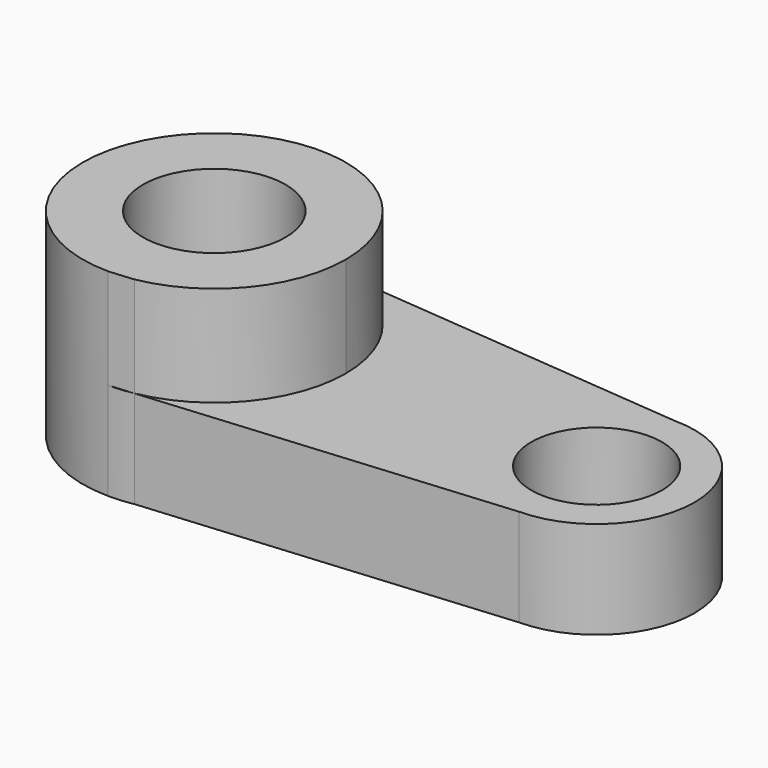
from build123d import *

# Parameters (mm, degrees)
F0_R     = 12.8247252284
F1_DEPTH = 35.56
F0_R_2   = 11.7493719905
F2_DEPTH = 17.526


with BuildPart() as f1:
    # F0 (on Top) → F1 (new body)
    with BuildSketch(Plane.XY):
        with BuildLine():
            ThreePointArc((-35.3370639504, -23.2563727032), (-21.4303319834, -15.1396713775), (-15.9468672944, 0))
            ThreePointArc((-15.9468672944, 0), (-22.1453737561, 15.9582678289), (-37.4905932494, 23.5485269258))
            ThreePointArc((-37.4905932494, 23.5485269258), (-63.2035691764, 1.1277568234), (-39.7441982942, -23.6412960616))
            Line((-39.7441982942, -23.6412960616), (-35.3370639504, -23.2563727032))
        make_face()
        with Locations((-39.5886749029, 0)):
            Circle(F0_R, mode=Mode.SUBTRACT)
    extrude(amount=F1_DEPTH)

    # F0 (on Top) → F2 (join)
    with BuildSketch(Plane.XY):
        with BuildLine():
            ThreePointArc((-35.3370639504, -23.2563727032), (-21.4303319834, -15.1396713775), (-15.9468672944, 0))
            ThreePointArc((-15.9468672944, 0), (-22.1453737561, 15.9582678289), (-37.4905932494, 23.5485269258))
            ThreePointArc((-37.4905932494, 23.5485269258), (-63.2035691764, 1.1277568234), (-39.7441982942, -23.6412960616))
            Line((-39.7441982942, -23.6412960616), (-35.3370639504, -23.2563727032))
        make_face()
        with Locations((-39.5886749029, 0)):
            Circle(F0_R, mode=Mode.SUBTRACT)
        with BuildLine():
            ThreePointArc((-37.4905932494, 23.5485269258), (-22.1453737561, 15.9582678289), (-15.9468672944, 0))
            ThreePointArc((-15.9468672944, 0), (-21.4303319834, -15.1396713775), (-35.3370639504, -23.2563727032))
            Line((-35.3370639504, -23.2563727032), (29.2993681141, -17.6109644696))
            ThreePointArc((29.2993681141, -17.6109644696), (46.7542063418, 0.0777738842), (29.1438219058, 17.6116611349))
            Line((29.1438219058, 17.6116611349), (-37.4905932494, 23.5485269258))
        make_face()
        with Locations((29.1427168995, 0)):
            Circle(F0_R_2, mode=Mode.SUBTRACT)
        with BuildLine():
            ThreePointArc((-39.7441982942, -23.6412960616), (-37.5316078585, -23.5521451714), (-35.3370639504, -23.2563727032))
            Line((-35.3370639504, -23.2563727032), (-39.7441982942, -23.6412960616))
        make_face()
    extrude(amount=F2_DEPTH)


solid = f1.part
